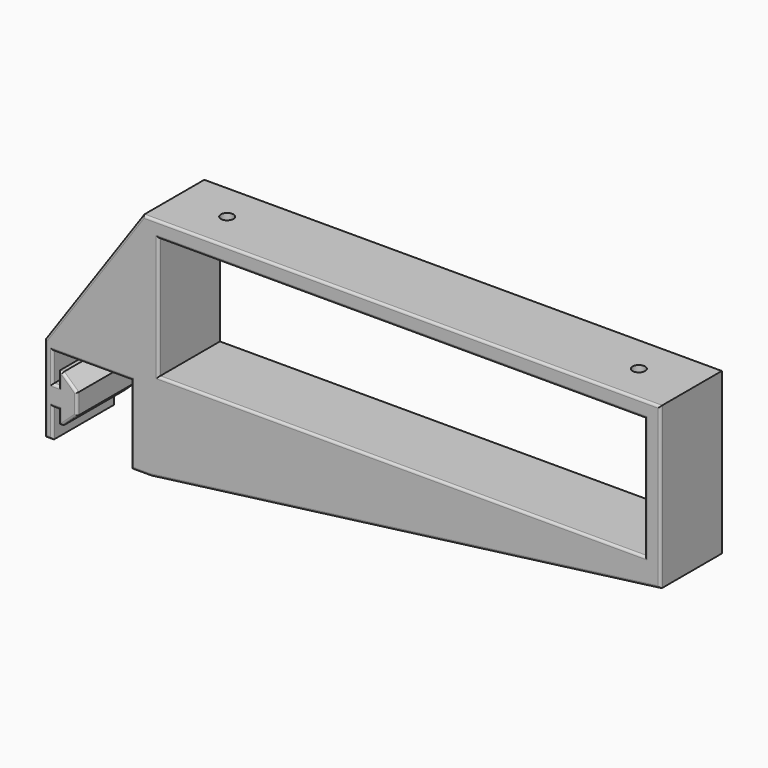
from build123d import *

# Parameters (mm, degrees)
SKETCH_W          = 124
SKETCH_H          = 31
PAD_DEPTH         = 10
SKETCH001_R       = 2.1
POCKET_DEPTH      = 33.001
POCKET_DEPTH_BACK = 25.001
SKETCH002_R       = 4.5
POCKET001_DEPTH   = 33.001
FILLET_R          = 2
SKETCH003_R       = 1.6
POCKET002_DEPTH   = 4.001
FILLET001_R       = 0.6


with BuildPart() as part:
    # Sketch → Pad (new body, symmetric)
    with BuildSketch(Plane.XZ):
        Polygon((0, 0), (0, -22), (2, -22), (2, -14.6), (3.5, -14.6), (3.5, -18), (4.5, -18), (8.2, -14.6), (8.2, -9.4), (4.5, -6), (3.5, -6), (3.5, -9.4), (2, -9.4), (2, -2), (22, -2), (22, -22), (27, -22), (157, -5), (157, 0), (157, 36), (25, 36), align=None)
        with Locations((91, 16.5)):
            Rectangle(SKETCH_W, SKETCH_H, mode=Mode.SUBTRACT)
    extrude(amount=PAD_DEPTH, both=True)

    # Sketch001 (on Face14 of Pad) → Pocket (cut, two sides)
    with BuildSketch(Plane(origin=(0, 0, 3), x_dir=(1, 0, 0), z_dir=(0, 0, -1))) as pocket_sk:
        with Locations((12, 0)):
            Circle(SKETCH001_R)
    extrude(amount=-POCKET_DEPTH, mode=Mode.SUBTRACT)
    extrude(pocket_sk.sketch, amount=POCKET_DEPTH_BACK, mode=Mode.SUBTRACT)

    # Sketch002 (on Face14 of Pad) → Pocket001 (cut, through all)
    with BuildSketch(Plane(origin=(0, 0, 3), x_dir=(1, 0, 0), z_dir=(0, 0, -1))):
        with Locations((12, 0)):
            Circle(SKETCH002_R)
    extrude(amount=-POCKET001_DEPTH, mode=Mode.SUBTRACT)

    # Fillet
    fillet_edges = [part.edges().sort_by_distance(p)[0] for p in [
        (7.500022, -0.014101, 10.800032),
    ]]
    fillet(fillet_edges, radius=FILLET_R)

    # Sketch003 (on Face25 of Fillet) → Pocket002 (cut, through all)
    with BuildSketch(Plane(origin=(0, 0, 32), x_dir=(1, 0, 0), z_dir=(0, 0, -1))):
        with Locations((38.5, 0)):
            Circle(SKETCH003_R)
        with Locations((143.5, 0)):
            Circle(SKETCH003_R)
    extrude(amount=-POCKET002_DEPTH, mode=Mode.SUBTRACT)

    # Fillet001
    fillet001_edges = [part.edges().sort_by_distance(p)[0] for p in [
        (0, -10, -11),
        (1, -10, -22),
        (2, -10, -18.3),
        (2.75, -10, -14.6),
        (3.5, -10, -16.3),
        (4, -10, -18),
        (6.35, -10, -16.3),
        (8.2, -10, -12),
        (6.35, -10, -7.7),
        (4, -10, -6),
        (3.5, -10, -7.7),
        (2.75, -10, -9.4),
        (2, -10, -5.7),
        (12, -10, -2),
        (22, -10, -12),
        (24.5, -10, -22),
        (92, -10, -13.5),
        (157, -10, 15.5),
        (91, -10, 36),
        (12.5, -10, 18),
        (91, -10, 32),
        (153, -10, 16.5),
        (91, -10, 1),
        (29, -10, 16.5),
        (0, 10, -11),
        (1, 10, -22),
        (2, 10, -18.3),
        (2.75, 10, -14.6),
        (3.5, 10, -16.3),
        (4, 10, -18),
        (6.35, 10, -16.3),
        (8.2, 10, -12),
        (6.35, 10, -7.7),
        (4, 10, -6),
        (3.5, 10, -7.7),
        (2.75, 10, -9.4),
        (2, 10, -5.7),
        (12, 10, -2),
        (22, 10, -12),
        (24.5, 10, -22),
        (92, 10, -13.5),
        (157, 10, 15.5),
        (91, 10, 36),
        (12.5, 10, 18),
        (91, 10, 32),
        (153, 10, 16.5),
        (91, 10, 1),
        (29, 10, 16.5),
    ]]
    fillet(fillet001_edges, radius=FILLET001_R)


solid = part.part
